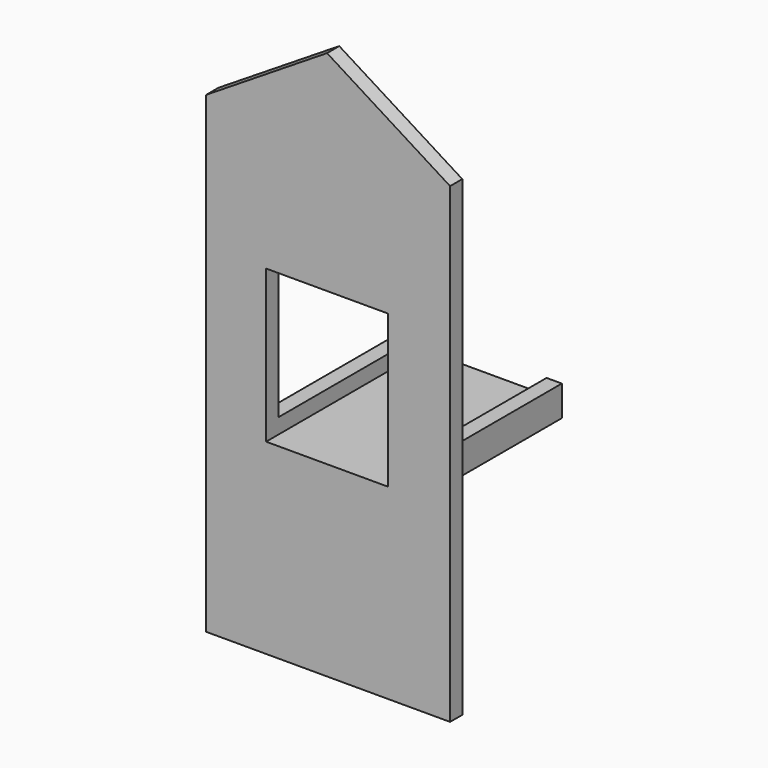
from build123d import *

# Parameters (mm, degrees)
F0_W     = 40
F0_H     = 50
F1_DEPTH = 5
F3_DEPTH = 60


with BuildPart() as f1:
    # F0 (on Front) → F1 (new body)
    with BuildSketch(Plane.XZ):
        Polygon((-39.653678, 33.766232), (-39.653678, -121.2987), (40.346322, -121.2987), (40.346322, 33.419915), (0, 58.7013), align=None)
        with Locations((0, -35)):
            Rectangle(F0_W, F0_H, mode=Mode.SUBTRACT)
    extrude(amount=F1_DEPTH)

    # F2 (on Front) → F3 (join)
    with BuildSketch(Plane.XZ):
        Polygon((-25, -55), (-25, -65), (25, -65), (25, -55), (20, -55), (20, -60), (-20, -60), (-20, -55), align=None)
    extrude(amount=-F3_DEPTH)


solid = f1.part
